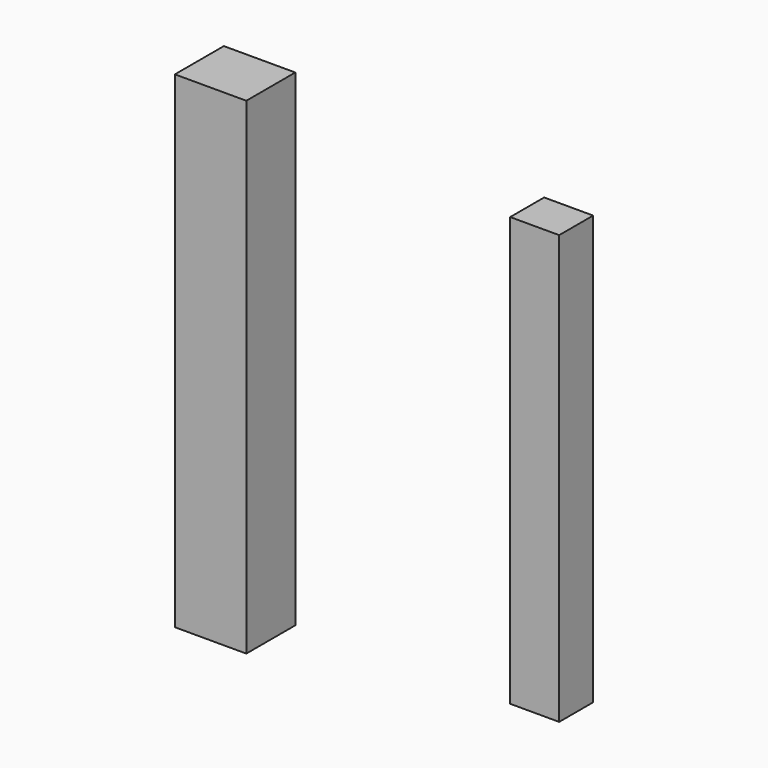
from build123d import *

# Parameters (mm, degrees)
F0_W     = 20.326555
F0_H     = 177.8
F1_DEPTH = 17.608827
F3_W     = 29.643357
F3_H     = 201.945334
F4_DEPTH = 25.4


with BuildPart() as f1:
    # F0 (on Front) → F1 (new body)
    with BuildSketch(Plane.XZ):
        with Locations((67.416429, 0)):
            Rectangle(F0_W, F0_H)
    extrude(amount=F1_DEPTH)


with BuildPart() as f4:
    # F3 (on face) → F4 (new body)
    with BuildSketch(Plane.XZ):
        with Locations((-60.820117, 0)):
            Rectangle(F3_W, F3_H)
    extrude(amount=F4_DEPTH)


solid = Compound([f1.part, f4.part])
